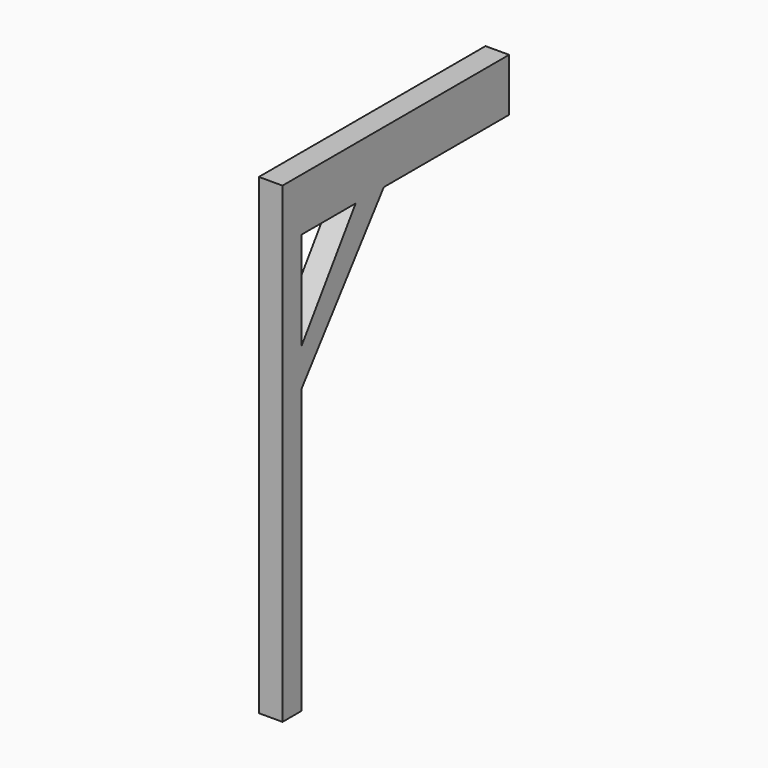
from build123d import *

# Parameters (mm, degrees)
F1_DEPTH = 25


with BuildPart() as f1:
    # F0 (on Right) → F1 (new body)
    with BuildSketch(Plane.YZ):
        Polygon((-76.896277, 150.686045), (-76.896277, -349.313955), (-51.896277, -349.313955), (-51.896277, -49.313955), (-51.896277, -9.338717), (-51.896277, 94.751239), (19.953003, 94.751239), (57.223622, 94.751239), (223.103723, 94.751239), (223.103723, 150.690981), align=None)
        Polygon((-51.896277, -9.338717), (-51.896277, -49.313955), (57.223622, 94.751239), (19.953003, 94.751239), align=None)
    extrude(amount=F1_DEPTH)


solid = f1.part
